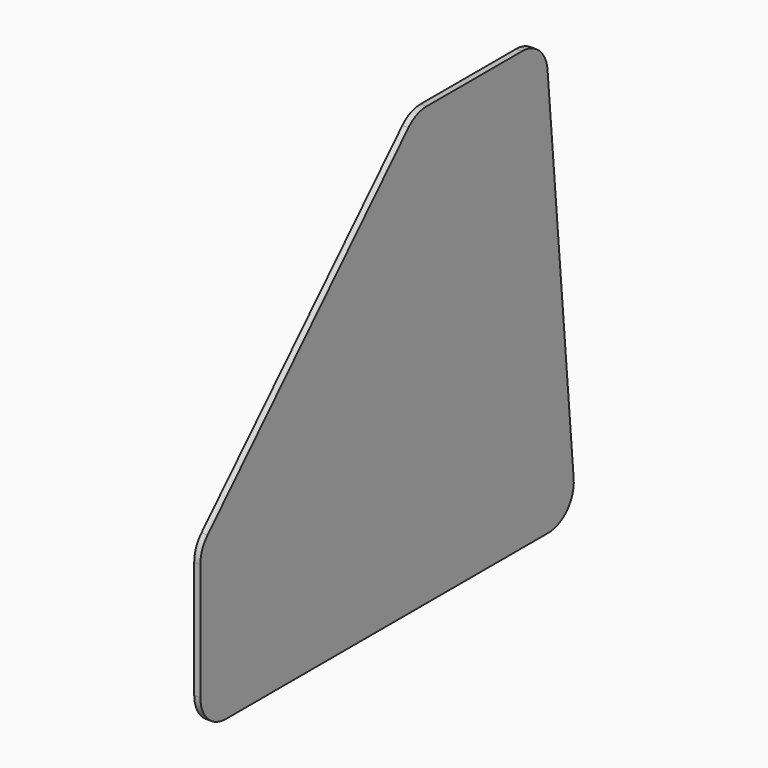
from build123d import *

# Parameters (mm, degrees)
F1_DEPTH = 9.525


with BuildPart() as f1:
    # F0 (on Right) → F1 (new body)
    with BuildSketch(Plane.YZ):
        with BuildLine():
            Line((-686.6, 0), (-54.565425, 0))
            ThreePointArc((-54.565425, 0), (-17.701558, 16.22049), (-4.75569, 54.357787))
            Line((-4.75569, 54.357787), (-56.006549, 640.157787))
            ThreePointArc((-56.006549, 640.157787), (-72.036774, 672.663867), (-105.816284, 685.8))
            Line((-105.816284, 685.8), (-292.97298, 685.8))
            ThreePointArc((-292.97298, 685.8), (-312.355559, 681.890298), (-328.706935, 670.772624))
            Line((-328.706935, 670.772624), (-722.333955, 268.576607))
            ThreePointArc((-722.333955, 268.576607), (-732.896316, 252.489192), (-736.6, 233.603983))
            Line((-736.6, 233.603983), (-736.6, 50))
            ThreePointArc((-736.6, 50), (-721.955339, 14.644661), (-686.6, 0))
        make_face()
    extrude(amount=F1_DEPTH)


solid = f1.part
